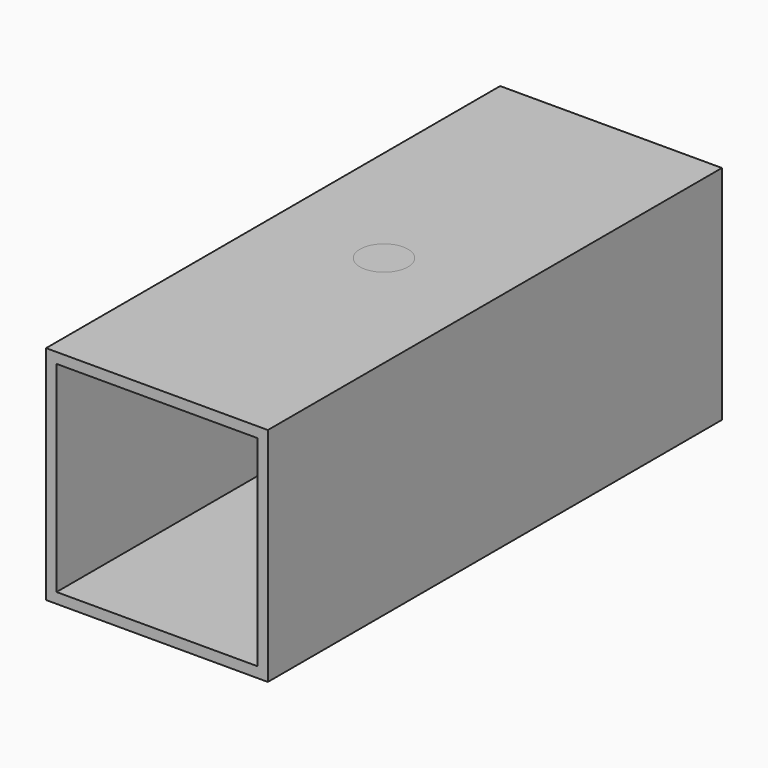
from build123d import *

# Parameters (mm, degrees)
F0_W     = 25.4
F0_H     = 25.4
F0_W_2   = 23
F0_H_2   = 23
F1_DEPTH = 32.5
F2_DEPTH = 32.5
F4_D     = 5.5
F5_D     = 10
F6_DEPTH = 32.5
F8_D     = 5.5
F9_DEPTH = 32.5
F11_D    = 5.5


with BuildPart() as f1:
    # F0 (on Front) → F1 (new body, symmetric)
    with BuildSketch(Plane.XZ):
        Rectangle(F0_W, F0_H)
        Rectangle(F0_W_2, F0_H_2, mode=Mode.SUBTRACT)
    extrude(amount=F1_DEPTH, both=True)


with BuildPart() as f2:
    # F0 (on Front) → F2 (new body, symmetric)
    with BuildSketch(Plane.XZ):
        Rectangle(F0_W, F0_H)
        Rectangle(F0_W_2, F0_H_2, mode=Mode.SUBTRACT)
    extrude(amount=F2_DEPTH, both=True)

    # F4 (through all)
    with Locations(Plane.XY.offset(12.7)):
        with Locations((0, -16), (0, 16)):
            Hole(F4_D / 2)

    # F5 (through all)
    with Locations(Plane.XY.offset(12.7)):
        with Locations((0, 0)):
            Hole(F5_D / 2)


with BuildPart() as f6:
    # F0 (on Front) → F6 (new body, symmetric)
    with BuildSketch(Plane.XZ):
        Rectangle(F0_W, F0_H)
        Rectangle(F0_W_2, F0_H_2, mode=Mode.SUBTRACT)
    extrude(amount=F6_DEPTH, both=True)

    # F8 (through all)
    with Locations(Plane.YZ.offset(12.7)):
        with Locations((-15, 0), (15, 0)):
            Hole(F8_D / 2)


with BuildPart() as f9:
    # F0 (on Front) → F9 (new body, symmetric)
    with BuildSketch(Plane.XZ):
        Rectangle(F0_W, F0_H)
        Rectangle(F0_W_2, F0_H_2, mode=Mode.SUBTRACT)
    extrude(amount=F9_DEPTH, both=True)

    # F11 (through all)
    with Locations(Plane.XY.offset(12.7)):
        with Locations((0, 0)):
            Hole(F11_D / 2)


solid = Compound([f1.part, f2.part, f6.part, f9.part])
